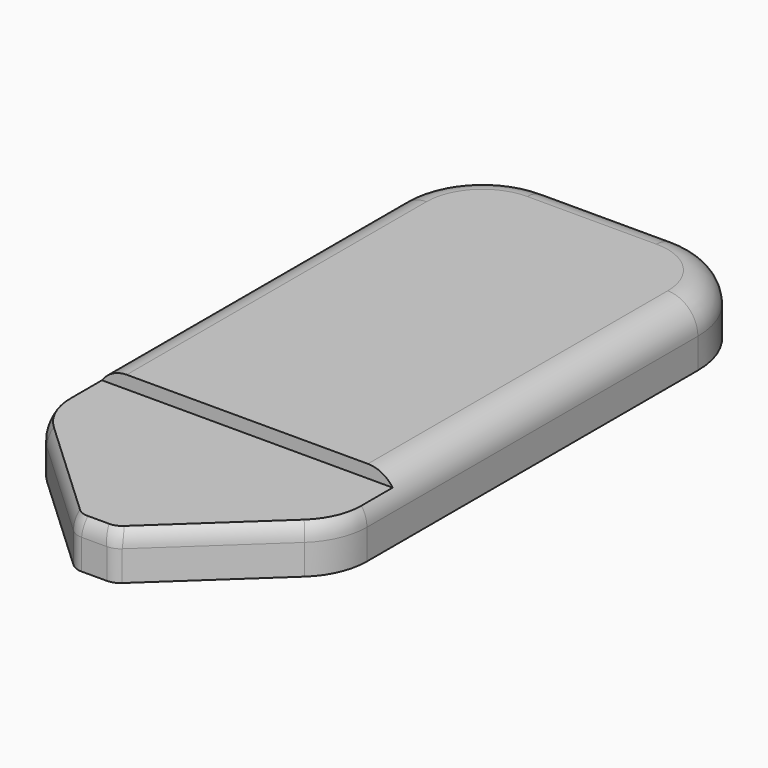
from build123d import *

# Parameters (mm, degrees)
PAD_DEPTH    = 14
FILLET001_R  = 4
FILLET002_R  = 16
FILLET_R     = 7
SKETCH059_W  = 80
SKETCH059_H  = 50
POCKET_DEPTH = 3


with BuildPart() as part:
    # Sketch → Pad (new body)
    with BuildSketch(Plane.XY):
        with BuildLine():
            Line((-35, -53.5), (-35, -69.5))
            Line((-35, -69.5), (-4.5, -97.94171))
            Line((-4.5, -97.94171), (4.5, -97.94171))
            Line((4.5, -97.94171), (35, -69.5))
            Line((35, -69.5), (35, -53.5))
            Line((35, 33.5), (35, -53.5))
            ThreePointArc((35, 33.5), (29.142136, 47.642136), (15, 53.5))
            Line((-15, 53.5), (15, 53.5))
            ThreePointArc((-15, 53.5), (-29.142136, 47.642136), (-35, 33.5))
            Line((-35, 33.5), (-35, -53.5))
        make_face()
    extrude(amount=PAD_DEPTH)

    # Fillet001
    fillet001_edges = [part.edges().sort_by_distance(p)[0] for p in [
        (-4.5, -97.94171, 7),
        (4.5, -97.94171, 7),
    ]]
    fillet(fillet001_edges, radius=FILLET001_R)

    # Fillet002
    fillet002_edges = [part.edges().sort_by_distance(p)[0] for p in [
        (35, -69.5, 7),
        (-35, -69.5, 7),
    ]]
    fillet(fillet002_edges, radius=FILLET002_R)

    # Fillet
    fillet_edges = [part.edges().sort_by_distance(p)[0] for p in [
        (-17.782163, -85.555893, 14),
        (-33.672961, -68.922987, 14),
        (-4.390363, -97.66338, 14),
        (-35, -58.021501, 14),
        (0, -97.94171, 14),
        (-35, -10, 14),
        (4.390363, -97.66338, 14),
        (-29.142136, 47.642136, 14),
        (17.782163, -85.555893, 14),
        (0, 53.5, 14),
        (33.672961, -68.922987, 14),
        (29.142136, 47.642136, 14),
        (35, -58.021501, 14),
        (35, -10, 14),
    ]]
    fillet(fillet_edges, radius=FILLET_R)

    # Sketch059 (on Face8 of Clone015) → Pocket (cut)
    with BuildSketch(Plane.XY.offset(14)):
        with Locations((0, -78.5)):
            Rectangle(SKETCH059_W, SKETCH059_H)
    extrude(amount=-POCKET_DEPTH, mode=Mode.SUBTRACT)


solid = part.part
